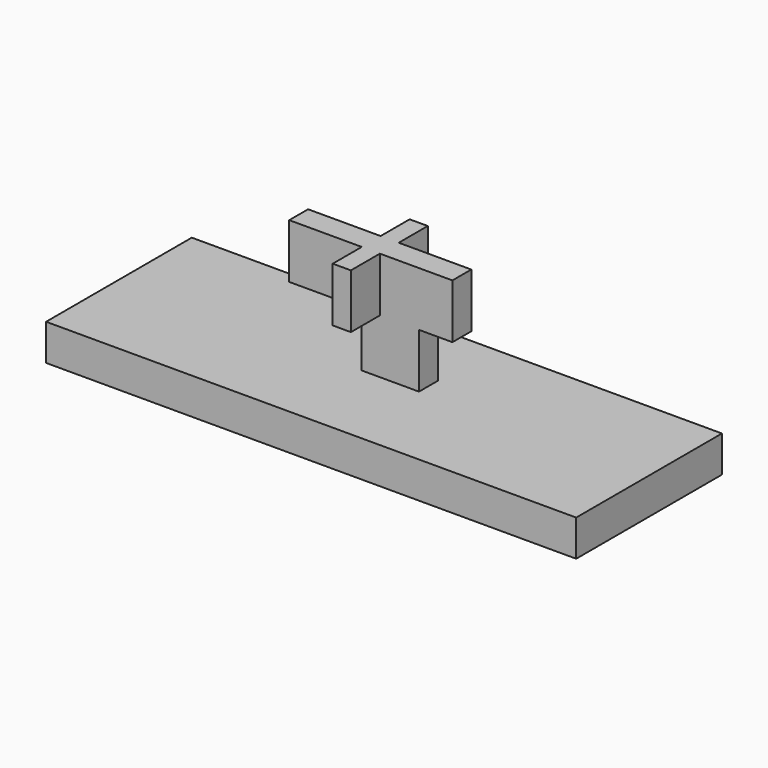
from build123d import *

# Parameters (mm, degrees)
F0_W     = 37.1348839253
F0_H     = 12.7599176485
F1_DEPTH = 2.54
F2_W     = 4.0106745437
F2_H     = 1.6526868567
F3_DEPTH = 3.81
F4_W     = 5.08
F4_H     = 1.6526868567
F4_W_2   = 1.27
F4_W_3   = 2.7406745437
F4_W_4   = 2.3393254563
F4_H_2   = 2.54
F5_DEPTH = 3.81


with BuildPart() as f1:
    # F0 (on Top) → F1 (new body)
    with BuildSketch(Plane.XY):
        with Locations((-0.831102021, -8.5664497456)):
            Rectangle(F0_W, F0_H)
    extrude(amount=F1_DEPTH)

    # F2 (on face) → F3 (join)
    with BuildSketch(Plane.XY.offset(2.54)):
        with Locations((-0.302497996, -7.8425793909)):
            Rectangle(F2_W, F2_H)
    extrude(amount=F3_DEPTH)

    # F4 (on face) → F5 (join)
    with BuildSketch(Plane.XY.offset(6.35)):
        with Locations((-4.8478352679, -7.8425793909)):
            Rectangle(F4_W, F4_H)
        with Locations((-1.6728352679, -7.8425793909)):
            Rectangle(F4_W_2, F4_H)
        with Locations((0.332502004, -7.8425793909)):
            Rectangle(F4_W_3, F4_H)
        with Locations((2.872502004, -7.8425793909)):
            Rectangle(F4_W_4, F4_H)
        with Locations((-1.6728352679, -5.7462359625)):
            Rectangle(F4_W_2, F4_H_2)
        with Locations((-1.6728352679, -9.9389228192)):
            Rectangle(F4_W_2, F4_H_2)
    extrude(amount=F5_DEPTH)


solid = f1.part
